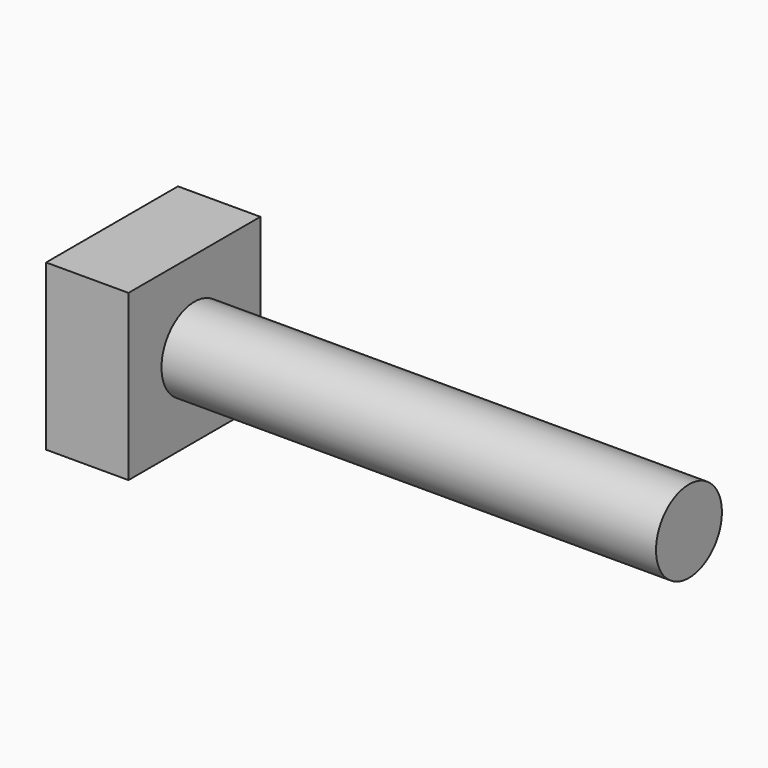
from build123d import *

# Parameters (mm, degrees)
F0_W     = 25.4
F0_H     = 25.4
F1_DEPTH = 12.7
F2_R     = 6.35
F3_DEPTH = 76.2


with BuildPart() as f1:
    # F0 (on Right) → F1 (new body)
    with BuildSketch(Plane.YZ):
        Rectangle(F0_W, F0_H)
    extrude(amount=F1_DEPTH)

    # F2 (on face) → F3 (join)
    with BuildSketch(Plane.YZ.offset(12.7)):
        Circle(F2_R)
    extrude(amount=F3_DEPTH)


solid = f1.part
